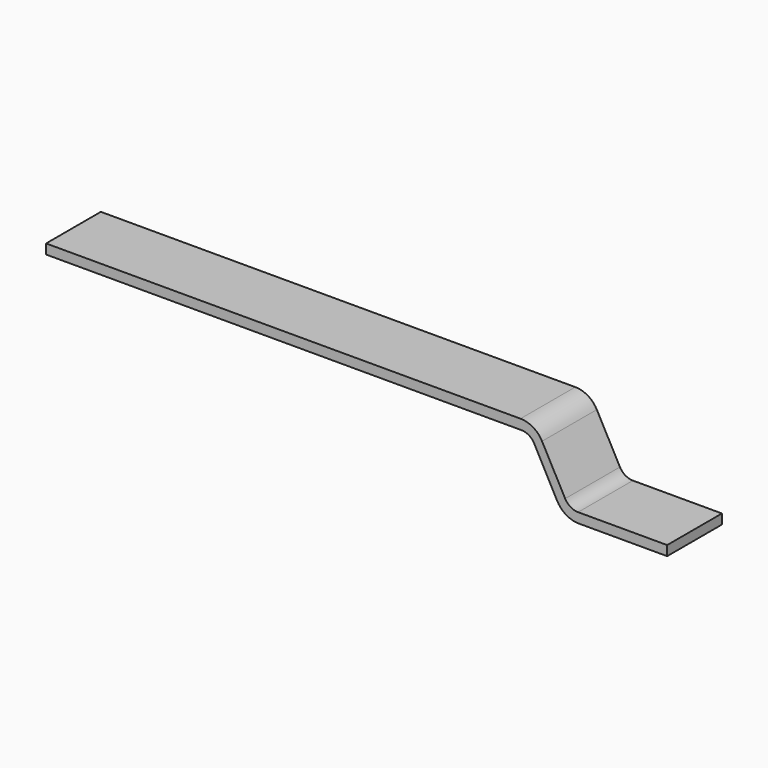
from build123d import *

# Parameters (mm, degrees)
F0_W     = 2
F0_H     = 0.2
F1_DEPTH = 1.4
F2_R     = 0.3
F3_R     = 0.5


with BuildPart() as f1:
    # F0 (on Front) → F1 (new body)
    with BuildSketch(Plane.XZ):
        Polygon((5, 0.1), (-5, 0.1), (-5, -0.1), (4.898743, -0.1), (5, -0.1), align=None)
        Polygon((5.7, -1.2), (5, 0.1), (5, -0.1), (4.898743, -0.1), (5.592507, -1.399263), (5.7, -1.4), align=None)
        with Locations((6.7, -1.3)):
            Rectangle(F0_W, F0_H)
    extrude(amount=F1_DEPTH)

    # F2
    f2_edges = [f1.edges().sort_by_distance(p)[0] for p in [
        (5.7, -0.7, -1.2),
        (4.898743, -0.7, -0.1),
    ]]
    fillet(f2_edges, radius=F2_R)

    # F3
    f3_edges = [f1.edges().sort_by_distance(p)[0] for p in [
        (5, -0.7, 0.1),
        (5.592507, -0.7, -1.399263),
    ]]
    fillet(f3_edges, radius=F3_R)


solid = f1.part
